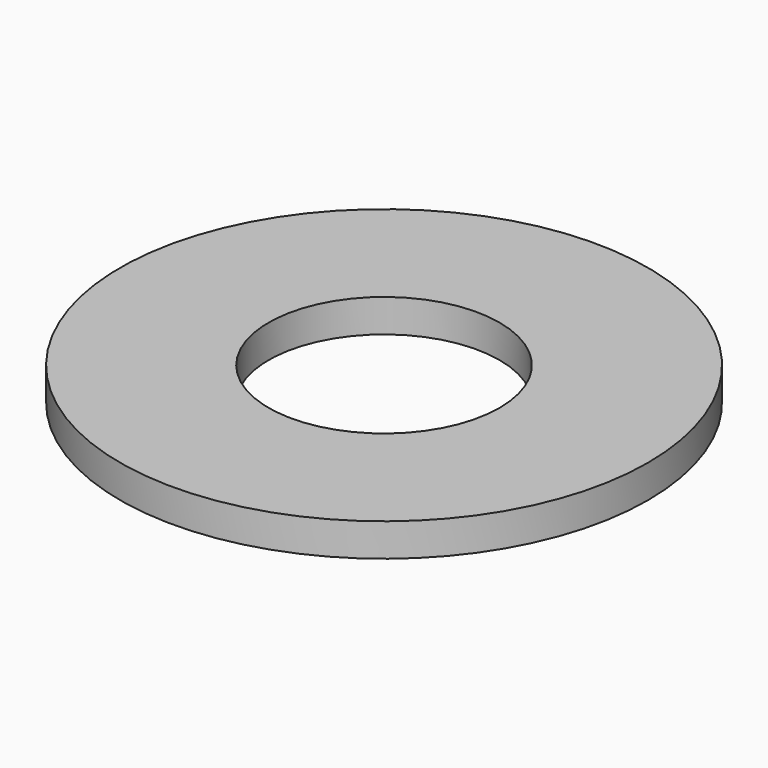
from build123d import *

# Parameters (mm, degrees)
F0_R     = 290
F1_DEPTH = 5
F2_R     = 11
F3_DEPTH = 25
F4_DEPTH = 80
F5_R     = 150.146942
F5_R_2   = 11.5
F6_DEPTH = 5
F7_R     = 40
F7_R_2   = 17.5
F8_DEPTH = 5


with BuildPart() as f1:
    # F0 (on Top) → F1 (new body)
    with BuildSketch(Plane.XY):
        Circle(F0_R)
        with BuildLine():
            Line((-60.906023, -273.295548), (-40.174253, -195.923529))
            ThreePointArc((-40.174253, -195.923529), (-20.190272, -198.978273), (0, -200))
            Line((0, -200), (0, -280))
            ThreePointArc((0, -280), (-30.63696, -278.31884), (-60.906023, -273.295548))
        make_face(mode=Mode.SUBTRACT)
        with BuildLine():
            Line((-189.393937, -206.227875), (-132.753689, -149.587627))
            ThreePointArc((-132.753689, -149.587627), (-116.974424, -162.225103), (-100, -173.205081))
            Line((-100, -173.205081), (-140, -242.487113))
            ThreePointArc((-140, -242.487113), (-165.691806, -225.712706), (-189.393937, -206.227875))
        make_face(mode=Mode.SUBTRACT)
        with BuildLine():
            Line((-267.133899, -83.90161), (-189.76188, -63.169841))
            ThreePointArc((-189.76188, -63.169841), (-182.415375, -82.003848), (-173.205081, -100))
            Line((-173.205081, -100), (-242.487113, -140))
            ThreePointArc((-242.487113, -140), (-256.349666, -112.627034), (-267.133899, -83.90161))
        make_face(mode=Mode.SUBTRACT)
        with BuildLine():
            Line((-87.898705, -104.754322), (-73.813276, -87.967845))
            ThreePointArc((-73.813276, -87.967845), (-70.698431, -90.490183), (-67.49746, -92.902284))
            Line((-67.49746, -92.902284), (-80.377673, -110.630376))
            ThreePointArc((-80.377673, -110.630376), (-84.18947, -107.757986), (-87.898705, -104.754322))
        make_face(mode=Mode.SUBTRACT)
        with BuildLine():
            Line((-103.203713, -89.714236), (-86.665715, -75.337875))
            ThreePointArc((-86.665715, -75.337875), (-83.9838, -78.316428), (-81.199573, -81.199573))
            Line((-81.199573, -81.199573), (-96.694494, -96.694494))
            ThreePointArc((-96.694494, -96.694494), (-100.010021, -93.261172), (-103.203713, -89.714236))
        make_face(mode=Mode.SUBTRACT)
        with BuildLine():
            Line((-70.42934, -117.21501), (-59.143309, -98.431755))
            ThreePointArc((-59.143309, -98.431755), (-55.672233, -100.43577), (-52.133335, -102.317432))
            Line((-52.133335, -102.317432), (-62.081687, -121.842171))
            ThreePointArc((-62.081687, -121.842171), (-66.295895, -119.601441), (-70.42934, -117.21501))
        make_face(mode=Mode.SUBTRACT)
        with BuildLine():
            Line((-51.225771, -126.789475), (-43.017038, -106.471949))
            ThreePointArc((-43.017038, -106.471949), (-39.275199, -107.908295), (-35.485515, -109.213185))
            Line((-35.485515, -109.213185), (-42.257043, -130.053807))
            ThreePointArc((-42.257043, -130.053807), (-46.769895, -128.499912), (-51.225771, -126.789475))
        make_face(mode=Mode.SUBTRACT)
        with BuildLine():
            Line((-30.760853, -133.241962), (-25.831544, -111.89045))
            ThreePointArc((-25.831544, -111.89045), (-21.91108, -112.72376), (-17.963923, -113.419747))
            Line((-17.963923, -113.419747), (-21.391891, -135.063087))
            ThreePointArc((-21.391891, -135.063087), (-26.092265, -134.234288), (-30.760853, -133.241962))
        make_face(mode=Mode.SUBTRACT)
        with BuildLine():
            Line((-9.538501, -136.41359), (-8.009993, -114.553837))
            ThreePointArc((-8.009993, -114.553837), (-4.007437, -114.763591), (0, -114.833538))
            Line((0, -114.833538), (0, -136.746665))
            ThreePointArc((0, -136.746665), (-4.772157, -136.663371), (-9.538501, -136.41359))
        make_face(mode=Mode.SUBTRACT)
        with BuildLine():
            Line((-125.875787, -53.431607), (-105.704676, -44.869398))
            ThreePointArc((-105.704676, -44.869398), (-104.074447, -48.530927), (-102.317432, -52.133335))
            Line((-102.317432, -52.133335), (-121.842171, -62.081687))
            ThreePointArc((-121.842171, -62.081687), (-123.934469, -57.791849), (-125.875787, -53.431607))
        make_face(mode=Mode.SUBTRACT)
        with BuildLine():
            Line((-115.967502, -72.465087), (-97.384156, -60.852836))
            ThreePointArc((-97.384156, -60.852836), (-95.201208, -64.214262), (-92.902284, -67.49746))
            Line((-92.902284, -67.49746), (-110.630376, -80.377673))
            ThreePointArc((-110.630376, -80.377673), (-113.367993, -76.467958), (-115.967502, -72.465087))
        make_face(mode=Mode.SUBTRACT)
        with BuildLine():
            Line((-132.684592, -33.082464), (-111.422397, -27.781127))
            ThreePointArc((-111.422397, -27.781127), (-110.385028, -31.652601), (-109.213185, -35.485515))
            Line((-109.213185, -35.485515), (-130.053807, -42.257043))
            ThreePointArc((-130.053807, -42.257043), (-131.449267, -37.692713), (-132.684592, -33.082464))
        make_face(mode=Mode.SUBTRACT)
        with BuildLine():
            Line((-136.226262, -11.918721), (-114.396528, -10.008792))
            ThreePointArc((-114.396528, -10.008792), (-113.977562, -13.994882), (-113.419747, -17.963923))
            Line((-113.419747, -17.963923), (-135.063087, -21.391891))
            ThreePointArc((-135.063087, -21.391891), (-135.727348, -16.665457), (-136.226262, -11.918721))
        make_face(mode=Mode.SUBTRACT)
        with BuildLine():
            Line((83.90161, -267.133899), (63.169841, -189.76188))
            ThreePointArc((63.169841, -189.76188), (82.003848, -182.415375), (100, -173.205081))
            Line((100, -173.205081), (140, -242.487113))
            ThreePointArc((140, -242.487113), (112.627034, -256.349666), (83.90161, -267.133899))
        make_face(mode=Mode.SUBTRACT)
        with BuildLine():
            Line((11.918721, -136.226262), (10.008792, -114.396528))
            ThreePointArc((10.008792, -114.396528), (13.994882, -113.977562), (17.963923, -113.419747))
            Line((17.963923, -113.419747), (21.391891, -135.063087))
            ThreePointArc((21.391891, -135.063087), (16.665457, -135.727348), (11.918721, -136.226262))
        make_face(mode=Mode.SUBTRACT)
        with BuildLine():
            Line((33.082464, -132.684592), (27.781127, -111.422397))
            ThreePointArc((27.781127, -111.422397), (31.652601, -110.385028), (35.485515, -109.213185))
            Line((35.485515, -109.213185), (42.257043, -130.053807))
            ThreePointArc((42.257043, -130.053807), (37.692713, -131.449267), (33.082464, -132.684592))
        make_face(mode=Mode.SUBTRACT)
        with BuildLine():
            Line((53.431607, -125.875787), (44.869398, -105.704676))
            ThreePointArc((44.869398, -105.704676), (48.530927, -104.074447), (52.133335, -102.317432))
            Line((52.133335, -102.317432), (62.081687, -121.842171))
            ThreePointArc((62.081687, -121.842171), (57.791849, -123.934469), (53.431607, -125.875787))
        make_face(mode=Mode.SUBTRACT)
        with BuildLine():
            Line((72.465087, -115.967502), (60.852836, -97.384156))
            ThreePointArc((60.852836, -97.384156), (64.214262, -95.201208), (67.49746, -92.902284))
            Line((67.49746, -92.902284), (80.377673, -110.630376))
            ThreePointArc((80.377673, -110.630376), (76.467958, -113.367993), (72.465087, -115.967502))
        make_face(mode=Mode.SUBTRACT)
        with BuildLine():
            Line((89.714236, -103.203713), (75.337875, -86.665715))
            ThreePointArc((75.337875, -86.665715), (78.316428, -83.9838), (81.199573, -81.199573))
            Line((81.199573, -81.199573), (96.694494, -96.694494))
            ThreePointArc((96.694494, -96.694494), (93.261172, -100.010021), (89.714236, -103.203713))
        make_face(mode=Mode.SUBTRACT)
        with BuildLine():
            Line((104.754322, -87.898705), (87.967845, -73.813276))
            ThreePointArc((87.967845, -73.813276), (90.490183, -70.698431), (92.902284, -67.49746))
            Line((92.902284, -67.49746), (110.630376, -80.377673))
            ThreePointArc((110.630376, -80.377673), (107.757986, -84.18947), (104.754322, -87.898705))
        make_face(mode=Mode.SUBTRACT)
        with BuildLine():
            Line((117.21501, -70.42934), (98.431755, -59.143309))
            ThreePointArc((98.431755, -59.143309), (100.43577, -55.672233), (102.317432, -52.133335))
            Line((102.317432, -52.133335), (121.842171, -62.081687))
            ThreePointArc((121.842171, -62.081687), (119.601441, -66.295895), (117.21501, -70.42934))
        make_face(mode=Mode.SUBTRACT)
        with BuildLine():
            Line((126.789475, -51.225771), (106.471949, -43.017038))
            ThreePointArc((106.471949, -43.017038), (107.908295, -39.275199), (109.213185, -35.485515))
            Line((109.213185, -35.485515), (130.053807, -42.257043))
            ThreePointArc((130.053807, -42.257043), (128.499912, -46.769895), (126.789475, -51.225771))
        make_face(mode=Mode.SUBTRACT)
        with BuildLine():
            Line((133.241962, -30.760853), (111.89045, -25.831544))
            ThreePointArc((111.89045, -25.831544), (112.72376, -21.91108), (113.419747, -17.963923))
            Line((113.419747, -17.963923), (135.063087, -21.391891))
            ThreePointArc((135.063087, -21.391891), (134.234288, -26.092265), (133.241962, -30.760853))
        make_face(mode=Mode.SUBTRACT)
        with BuildLine():
            Line((136.41359, -9.538501), (114.553837, -8.009993))
            ThreePointArc((114.553837, -8.009993), (114.763591, -4.007437), (114.833538, 0))
            Line((114.833538, 0), (136.746665, 0))
            ThreePointArc((136.746665, 0), (136.663371, -4.772157), (136.41359, -9.538501))
        make_face(mode=Mode.SUBTRACT)
        with BuildLine():
            Line((206.227875, -189.393937), (149.587627, -132.753689))
            ThreePointArc((149.587627, -132.753689), (162.225103, -116.974424), (173.205081, -100))
            Line((173.205081, -100), (242.487113, -140))
            ThreePointArc((242.487113, -140), (225.712706, -165.691806), (206.227875, -189.393937))
        make_face(mode=Mode.SUBTRACT)
        with BuildLine():
            Line((273.295548, -60.906023), (195.923529, -40.174253))
            ThreePointArc((195.923529, -40.174253), (198.978273, -20.190272), (200, 0))
            Line((200, 0), (280, 0))
            ThreePointArc((280, 0), (278.31884, -30.63696), (273.295548, -60.906023))
        make_face(mode=Mode.SUBTRACT)
        with BuildLine():
            Line((-273.295548, 60.906023), (-195.923529, 40.174253))
            ThreePointArc((-195.923529, 40.174253), (-198.978273, 20.190272), (-200, 0))
            Line((-200, 0), (-280, 0))
            ThreePointArc((-280, 0), (-278.31884, 30.63696), (-273.295548, 60.906023))
        make_face(mode=Mode.SUBTRACT)
        with BuildLine():
            Line((-206.227875, 189.393937), (-149.587627, 132.753689))
            ThreePointArc((-149.587627, 132.753689), (-162.225103, 116.974424), (-173.205081, 100))
            Line((-173.205081, 100), (-242.487113, 140))
            ThreePointArc((-242.487113, 140), (-225.712706, 165.691806), (-206.227875, 189.393937))
        make_face(mode=Mode.SUBTRACT)
        with BuildLine():
            Line((-136.41359, 9.538501), (-114.553837, 8.009993))
            ThreePointArc((-114.553837, 8.009993), (-114.763591, 4.007437), (-114.833538, 0))
            Line((-114.833538, 0), (-136.746665, 0))
            ThreePointArc((-136.746665, 0), (-136.663371, 4.772157), (-136.41359, 9.538501))
        make_face(mode=Mode.SUBTRACT)
        with BuildLine():
            Line((-133.241962, 30.760853), (-111.89045, 25.831544))
            ThreePointArc((-111.89045, 25.831544), (-112.72376, 21.91108), (-113.419747, 17.963923))
            Line((-113.419747, 17.963923), (-135.063087, 21.391891))
            ThreePointArc((-135.063087, 21.391891), (-134.234288, 26.092265), (-133.241962, 30.760853))
        make_face(mode=Mode.SUBTRACT)
        with BuildLine():
            Line((-126.789475, 51.225771), (-106.471949, 43.017038))
            ThreePointArc((-106.471949, 43.017038), (-107.908295, 39.275199), (-109.213185, 35.485515))
            Line((-109.213185, 35.485515), (-130.053807, 42.257043))
            ThreePointArc((-130.053807, 42.257043), (-128.499912, 46.769895), (-126.789475, 51.225771))
        make_face(mode=Mode.SUBTRACT)
        with BuildLine():
            Line((-117.21501, 70.42934), (-98.431755, 59.143309))
            ThreePointArc((-98.431755, 59.143309), (-100.43577, 55.672233), (-102.317432, 52.133335))
            Line((-102.317432, 52.133335), (-121.842171, 62.081687))
            ThreePointArc((-121.842171, 62.081687), (-119.601441, 66.295895), (-117.21501, 70.42934))
        make_face(mode=Mode.SUBTRACT)
        with BuildLine():
            Line((-104.754322, 87.898705), (-87.967845, 73.813276))
            ThreePointArc((-87.967845, 73.813276), (-90.490183, 70.698431), (-92.902284, 67.49746))
            Line((-92.902284, 67.49746), (-110.630376, 80.377673))
            ThreePointArc((-110.630376, 80.377673), (-107.757986, 84.18947), (-104.754322, 87.898705))
        make_face(mode=Mode.SUBTRACT)
        with BuildLine():
            Line((-89.714236, 103.203713), (-75.337875, 86.665715))
            ThreePointArc((-75.337875, 86.665715), (-78.316428, 83.9838), (-81.199573, 81.199573))
            Line((-81.199573, 81.199573), (-96.694494, 96.694494))
            ThreePointArc((-96.694494, 96.694494), (-93.261172, 100.010021), (-89.714236, 103.203713))
        make_face(mode=Mode.SUBTRACT)
        with BuildLine():
            Line((-72.465087, 115.967502), (-60.852836, 97.384156))
            ThreePointArc((-60.852836, 97.384156), (-64.214262, 95.201208), (-67.49746, 92.902284))
            Line((-67.49746, 92.902284), (-80.377673, 110.630376))
            ThreePointArc((-80.377673, 110.630376), (-76.467958, 113.367993), (-72.465087, 115.967502))
        make_face(mode=Mode.SUBTRACT)
        with BuildLine():
            Line((-53.431607, 125.875787), (-44.869398, 105.704676))
            ThreePointArc((-44.869398, 105.704676), (-48.530927, 104.074447), (-52.133335, 102.317432))
            Line((-52.133335, 102.317432), (-62.081687, 121.842171))
            ThreePointArc((-62.081687, 121.842171), (-57.791849, 123.934469), (-53.431607, 125.875787))
        make_face(mode=Mode.SUBTRACT)
        with BuildLine():
            Line((-33.082464, 132.684592), (-27.781127, 111.422397))
            ThreePointArc((-27.781127, 111.422397), (-31.652601, 110.385028), (-35.485515, 109.213185))
            Line((-35.485515, 109.213185), (-42.257043, 130.053807))
            ThreePointArc((-42.257043, 130.053807), (-37.692713, 131.449267), (-33.082464, 132.684592))
        make_face(mode=Mode.SUBTRACT)
        with BuildLine():
            Line((-11.918721, 136.226262), (-10.008792, 114.396528))
            ThreePointArc((-10.008792, 114.396528), (-13.994882, 113.977562), (-17.963923, 113.419747))
            Line((-17.963923, 113.419747), (-21.391891, 135.063087))
            ThreePointArc((-21.391891, 135.063087), (-16.665457, 135.727348), (-11.918721, 136.226262))
        make_face(mode=Mode.SUBTRACT)
        with BuildLine():
            Line((-83.90161, 267.133899), (-63.169841, 189.76188))
            ThreePointArc((-63.169841, 189.76188), (-82.003848, 182.415375), (-100, 173.205081))
            Line((-100, 173.205081), (-140, 242.487113))
            ThreePointArc((-140, 242.487113), (-112.627034, 256.349666), (-83.90161, 267.133899))
        make_face(mode=Mode.SUBTRACT)
        Polygon((5, 5), (5, -5), (-5, -5), (-5, 5), (0, 5), align=None, mode=Mode.SUBTRACT)
        with BuildLine():
            Line((136.226262, 11.918721), (114.396528, 10.008792))
            ThreePointArc((114.396528, 10.008792), (113.977562, 13.994882), (113.419747, 17.963923))
            Line((113.419747, 17.963923), (135.063087, 21.391891))
            ThreePointArc((135.063087, 21.391891), (135.727348, 16.665457), (136.226262, 11.918721))
        make_face(mode=Mode.SUBTRACT)
        with BuildLine():
            Line((132.684592, 33.082464), (111.422397, 27.781127))
            ThreePointArc((111.422397, 27.781127), (110.385028, 31.652601), (109.213185, 35.485515))
            Line((109.213185, 35.485515), (130.053807, 42.257043))
            ThreePointArc((130.053807, 42.257043), (131.449267, 37.692713), (132.684592, 33.082464))
        make_face(mode=Mode.SUBTRACT)
        with BuildLine():
            Line((115.967502, 72.465087), (97.384156, 60.852836))
            ThreePointArc((97.384156, 60.852836), (95.201208, 64.214262), (92.902284, 67.49746))
            Line((92.902284, 67.49746), (110.630376, 80.377673))
            ThreePointArc((110.630376, 80.377673), (113.367993, 76.467958), (115.967502, 72.465087))
        make_face(mode=Mode.SUBTRACT)
        with BuildLine():
            Line((125.875787, 53.431607), (105.704676, 44.869398))
            ThreePointArc((105.704676, 44.869398), (104.074447, 48.530927), (102.317432, 52.133335))
            Line((102.317432, 52.133335), (121.842171, 62.081687))
            ThreePointArc((121.842171, 62.081687), (123.934469, 57.791849), (125.875787, 53.431607))
        make_face(mode=Mode.SUBTRACT)
        with BuildLine():
            ThreePointArc((0, 136.746665), (4.772157, 136.663371), (9.538501, 136.41359))
            Line((9.538501, 136.41359), (8.009993, 114.553837))
            ThreePointArc((8.009993, 114.553837), (4.007437, 114.763591), (0, 114.833538))
            Line((0, 114.833538), (0, 136.746665))
        make_face(mode=Mode.SUBTRACT)
        with BuildLine():
            Line((30.760853, 133.241962), (25.831544, 111.89045))
            ThreePointArc((25.831544, 111.89045), (21.91108, 112.72376), (17.963923, 113.419747))
            Line((17.963923, 113.419747), (21.391891, 135.063087))
            ThreePointArc((21.391891, 135.063087), (26.092265, 134.234288), (30.760853, 133.241962))
        make_face(mode=Mode.SUBTRACT)
        with BuildLine():
            Line((51.225771, 126.789475), (43.017038, 106.471949))
            ThreePointArc((43.017038, 106.471949), (39.275199, 107.908295), (35.485515, 109.213185))
            Line((35.485515, 109.213185), (42.257043, 130.053807))
            ThreePointArc((42.257043, 130.053807), (46.769895, 128.499912), (51.225771, 126.789475))
        make_face(mode=Mode.SUBTRACT)
        with BuildLine():
            Line((70.42934, 117.21501), (59.143309, 98.431755))
            ThreePointArc((59.143309, 98.431755), (55.672233, 100.43577), (52.133335, 102.317432))
            Line((52.133335, 102.317432), (62.081687, 121.842171))
            ThreePointArc((62.081687, 121.842171), (66.295895, 119.601441), (70.42934, 117.21501))
        make_face(mode=Mode.SUBTRACT)
        with BuildLine():
            Line((103.203713, 89.714236), (86.665715, 75.337875))
            ThreePointArc((86.665715, 75.337875), (83.9838, 78.316428), (81.199573, 81.199573))
            Line((81.199573, 81.199573), (96.694494, 96.694494))
            ThreePointArc((96.694494, 96.694494), (100.010021, 93.261172), (103.203713, 89.714236))
        make_face(mode=Mode.SUBTRACT)
        with BuildLine():
            Line((87.898705, 104.754322), (73.813276, 87.967845))
            ThreePointArc((73.813276, 87.967845), (70.698431, 90.490183), (67.49746, 92.902284))
            Line((67.49746, 92.902284), (80.377673, 110.630376))
            ThreePointArc((80.377673, 110.630376), (84.18947, 107.757986), (87.898705, 104.754322))
        make_face(mode=Mode.SUBTRACT)
        with BuildLine():
            Line((267.133899, 83.90161), (189.76188, 63.169841))
            ThreePointArc((189.76188, 63.169841), (182.415375, 82.003848), (173.205081, 100))
            Line((173.205081, 100), (242.487113, 140))
            ThreePointArc((242.487113, 140), (256.349666, 112.627034), (267.133899, 83.90161))
        make_face(mode=Mode.SUBTRACT)
        with BuildLine():
            Line((189.393937, 206.227875), (132.753689, 149.587627))
            ThreePointArc((132.753689, 149.587627), (116.974424, 162.225103), (100, 173.205081))
            Line((100, 173.205081), (140, 242.487113))
            ThreePointArc((140, 242.487113), (165.691806, 225.712706), (189.393937, 206.227875))
        make_face(mode=Mode.SUBTRACT)
        with BuildLine():
            Line((60.906023, 273.295548), (40.174253, 195.923529))
            ThreePointArc((40.174253, 195.923529), (20.190272, 198.978273), (0, 200))
            Line((0, 200), (0, 280))
            ThreePointArc((0, 280), (30.63696, 278.31884), (60.906023, 273.295548))
        make_face(mode=Mode.SUBTRACT)
        Polygon((-5, -5), (5, -5), (5, 5), (0, 5), (-5, 5), align=None)
    extrude(amount=F1_DEPTH)

    # F2 (on face) → F3 (cut)
    with BuildSketch(Plane.XY.offset(5)):
        Circle(F2_R)
    extrude(amount=-F3_DEPTH, mode=Mode.SUBTRACT)

    # F5 (on face) → F6 (join)
    with BuildSketch(Plane.XY.offset(5)):
        Circle(F5_R)
        Circle(F5_R_2, mode=Mode.SUBTRACT)
    extrude(amount=-F6_DEPTH)


with BuildPart() as f4:
    # F2 (on face) → F4 (new body)
    with BuildSketch(Plane.XY.offset(5)):
        Circle(F2_R)
    extrude(amount=F4_DEPTH)


with BuildPart() as f8:
    # F7 (on face) → F8 (new body)
    with BuildSketch(Plane.XY.offset(5)):
        Circle(F7_R)
        Circle(F7_R_2, mode=Mode.SUBTRACT)
    extrude(amount=F8_DEPTH)


solid = f8.part
